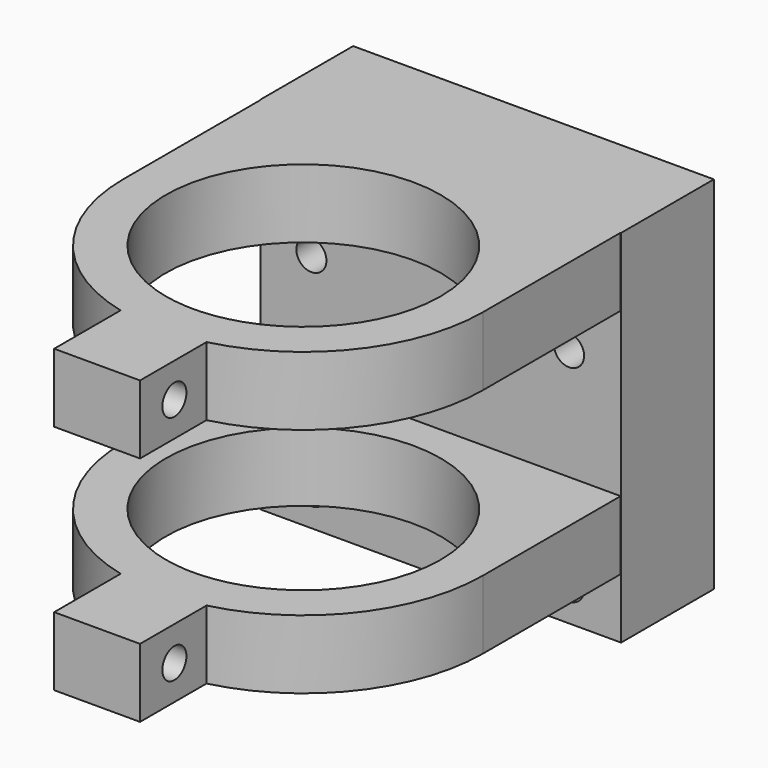
from build123d import *

# Parameters (mm, degrees)
F0_W     = 42
F0_H     = 10
F0_H_2   = 3.5
F1_DEPTH = 42
F2_R     = 1.75
F3_DEPTH = 25
F5_DEPTH = 8
F6_START = -27
F6_DEPTH = 8
F7_R     = 1.75
F8_DEPTH = 25


with BuildPart() as f1:
    # F0 (on Top) → F1 (new body)
    with BuildSketch(Plane.XY):
        with Locations((21, 5)):
            Rectangle(F0_W, F0_H)
        with Locations((21, 11.75)):
            Rectangle(F0_W, F0_H_2)
    extrude(amount=F1_DEPTH)

    # F2 (on face) → F3 (cut)
    with BuildSketch(Plane.XZ):
        with Locations((5.9434068862, 28)):
            Circle(F2_R)
        with Locations((5.9434068862, 4)):
            Circle(F2_R)
        with Locations((35.9434068862, 4)):
            Circle(F2_R)
        with Locations((35.9434068862, 28)):
            Circle(F2_R)
    extrude(amount=-F3_DEPTH, mode=Mode.SUBTRACT)

    # F4 (on face) → F5 (join)
    with BuildSketch(Plane.XY.offset(42)):
        with BuildLine():
            ThreePointArc((16, -35.1986841536), (11.6191684804, -7.0385186032), (37, -20))
            ThreePointArc((37, -20), (33.9614813968, -29.3808315196), (26, -35.1986841536))
            Line((26, -35.1986841536), (26, -40.33927218))
            ThreePointArc((26, -40.33927218), (37.4834789023, -32.9221095835), (41.9448321266, -20))
            ThreePointArc((41.9448321266, -20), (37.8665170629, -7.582005195), (27.219806493, 0))
            Line((27.219806493, 0), (14.780193507, 0))
            ThreePointArc((14.780193507, 0), (4.1334829371, -7.582005195), (0.0551678734, -20))
            ThreePointArc((0.0551678734, -20), (4.5165210977, -32.9221095835), (16, -40.33927218))
            Line((16, -40.33927218), (16, -35.1986841536))
        make_face()
        with BuildLine():
            Line((26, -40.33927218), (26, -35.1986841536))
            ThreePointArc((26, -35.1986841536), (24.0246055245, -35.7115168402), (22, -35.9687194227))
            Line((22, -35.9687194227), (22, -40.9209462695))
            ThreePointArc((22, -40.9209462695), (24.0140647283, -40.7268281853), (26, -40.33927218))
        make_face()
        with BuildLine():
            Line((26, -50.0102601945), (26, -40.33927218))
            ThreePointArc((26, -40.33927218), (24.0140647283, -40.7268281853), (22, -40.9209462695))
            Line((22, -40.9209462695), (22, -50.0102601945))
            Line((22, -50.0102601945), (26, -50.0102601945))
        make_face()
        with BuildLine():
            ThreePointArc((20, -40.9209462695), (17.9859352717, -40.7268281853), (16, -40.33927218))
            Line((16, -40.33927218), (16, -50.0102601945))
            Line((16, -50.0102601945), (20, -50.0102601945))
            Line((20, -50.0102601945), (20, -40.9209462695))
        make_face()
        with BuildLine():
            ThreePointArc((20, -35.9687194227), (17.9753944755, -35.7115168402), (16, -35.1986841536))
            Line((16, -35.1986841536), (16, -40.33927218))
            ThreePointArc((16, -40.33927218), (17.9859352717, -40.7268281853), (20, -40.9209462695))
            Line((20, -40.9209462695), (20, -35.9687194227))
        make_face()
        with BuildLine():
            ThreePointArc((22, -35.9687194227), (21, -36), (20, -35.9687194227))
            Line((20, -35.9687194227), (20, -40.9209462695))
            ThreePointArc((20, -40.9209462695), (21, -40.9448321266), (22, -40.9209462695))
            Line((22, -40.9209462695), (22, -35.9687194227))
        make_face()
        with BuildLine():
            ThreePointArc((22, -40.9209462695), (21, -40.9448321266), (20, -40.9209462695))
            Line((20, -40.9209462695), (20, -50.0102601945))
            Line((20, -50.0102601945), (22, -50.0102601945))
            Line((22, -50.0102601945), (22, -40.9209462695))
        make_face()
        with BuildLine():
            Line((0.0551678734, 0), (0.0551678734, -20))
            ThreePointArc((0.0551678734, -20), (4.1334829371, -7.582005195), (14.780193507, 0))
            Line((14.780193507, 0), (0.0551678734, 0))
        make_face()
        with BuildLine():
            ThreePointArc((27.219806493, 0), (37.8665170629, -7.582005195), (41.9448321266, -20))
            Line((41.9448321266, -20), (41.9448321266, 0))
            Line((41.9448321266, 0), (27.219806493, 0))
        make_face()
    extrude(amount=-F5_DEPTH)

    # F4 (on face) → F6 (join)
    with BuildSketch(Plane.XY.offset(42).offset(F6_START)):
        with BuildLine():
            ThreePointArc((16, -35.1986841536), (11.6191684804, -7.0385186032), (37, -20))
            ThreePointArc((37, -20), (33.9614813968, -29.3808315196), (26, -35.1986841536))
            Line((26, -35.1986841536), (26, -40.33927218))
            ThreePointArc((26, -40.33927218), (37.4834789023, -32.9221095835), (41.9448321266, -20))
            ThreePointArc((41.9448321266, -20), (37.8665170629, -7.582005195), (27.219806493, 0))
            Line((27.219806493, 0), (14.780193507, 0))
            ThreePointArc((14.780193507, 0), (4.1334829371, -7.582005195), (0.0551678734, -20))
            ThreePointArc((0.0551678734, -20), (4.5165210977, -32.9221095835), (16, -40.33927218))
            Line((16, -40.33927218), (16, -35.1986841536))
        make_face()
        with BuildLine():
            ThreePointArc((20, -35.9687194227), (17.9753944755, -35.7115168402), (16, -35.1986841536))
            Line((16, -35.1986841536), (16, -40.33927218))
            ThreePointArc((16, -40.33927218), (17.9859352717, -40.7268281853), (20, -40.9209462695))
            Line((20, -40.9209462695), (20, -35.9687194227))
        make_face()
        with BuildLine():
            ThreePointArc((20, -40.9209462695), (17.9859352717, -40.7268281853), (16, -40.33927218))
            Line((16, -40.33927218), (16, -50.0102601945))
            Line((16, -50.0102601945), (20, -50.0102601945))
            Line((20, -50.0102601945), (20, -40.9209462695))
        make_face()
        with BuildLine():
            Line((26, -50.0102601945), (26, -40.33927218))
            ThreePointArc((26, -40.33927218), (24.0140647283, -40.7268281853), (22, -40.9209462695))
            Line((22, -40.9209462695), (22, -50.0102601945))
            Line((22, -50.0102601945), (26, -50.0102601945))
        make_face()
        with BuildLine():
            Line((26, -40.33927218), (26, -35.1986841536))
            ThreePointArc((26, -35.1986841536), (24.0246055245, -35.7115168402), (22, -35.9687194227))
            Line((22, -35.9687194227), (22, -40.9209462695))
            ThreePointArc((22, -40.9209462695), (24.0140647283, -40.7268281853), (26, -40.33927218))
        make_face()
        with BuildLine():
            ThreePointArc((22, -40.9209462695), (21, -40.9448321266), (20, -40.9209462695))
            Line((20, -40.9209462695), (20, -50.0102601945))
            Line((20, -50.0102601945), (22, -50.0102601945))
            Line((22, -50.0102601945), (22, -40.9209462695))
        make_face()
        with BuildLine():
            ThreePointArc((22, -35.9687194227), (21, -36), (20, -35.9687194227))
            Line((20, -35.9687194227), (20, -40.9209462695))
            ThreePointArc((20, -40.9209462695), (21, -40.9448321266), (22, -40.9209462695))
            Line((22, -40.9209462695), (22, -35.9687194227))
        make_face()
        with BuildLine():
            Line((0.0551678734, 0), (0.0551678734, -20))
            ThreePointArc((0.0551678734, -20), (4.1334829371, -7.582005195), (14.780193507, 0))
            Line((14.780193507, 0), (0.0551678734, 0))
        make_face()
        with BuildLine():
            ThreePointArc((27.219806493, 0), (37.8665170629, -7.582005195), (41.9448321266, -20))
            Line((41.9448321266, -20), (41.9448321266, 0))
            Line((41.9448321266, 0), (27.219806493, 0))
        make_face()
    extrude(amount=-F6_DEPTH)

    # F7 (on face) → F8 (cut)
    with BuildSketch(Plane(origin=(16, 0, 0), x_dir=(0, -1, 0), z_dir=(-1, 0, 0))):
        with Locations((45.0102601945, 38)):
            Circle(F7_R)
        with Locations((45.0102601945, 11)):
            Circle(F7_R)
    extrude(amount=-F8_DEPTH, mode=Mode.SUBTRACT)


solid = f1.part
